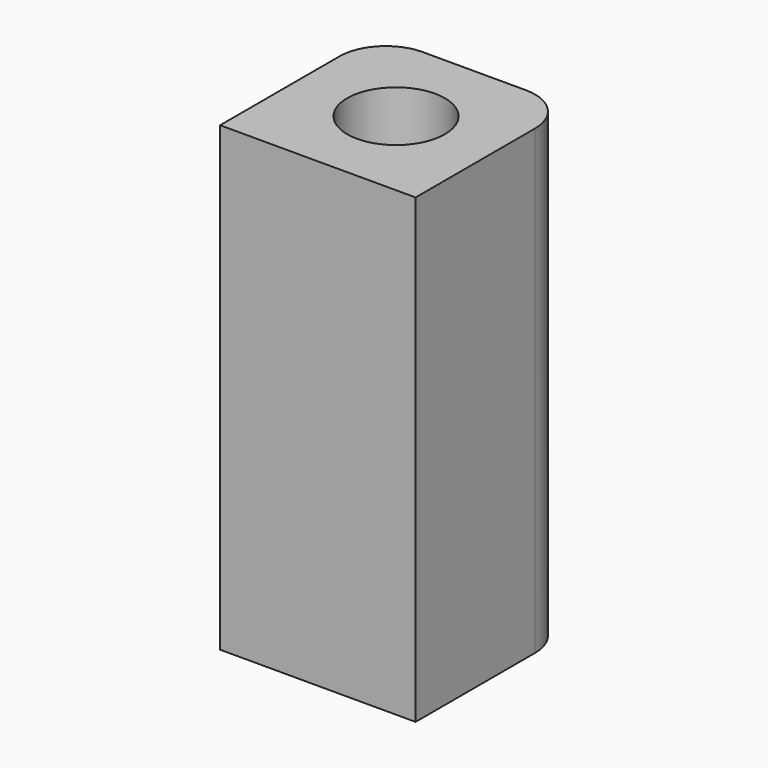
from build123d import *

# Parameters (mm, degrees)
PAD_DEPTH    = 30
SKETCH001_R  = 3.175
POCKET_DEPTH = 25


with BuildPart() as part:
    # Sketch → Pad (new body)
    with BuildSketch(Plane.XY):
        with BuildLine():
            Line((-6.35, 0), (6.35, 0))
            Line((6.35, 0), (6.35, 9.7))
            ThreePointArc((6.35, 9.7), (5.47132, 11.82132), (3.35, 12.7))
            Line((3.35, 12.7), (-3.35, 12.7))
            ThreePointArc((-3.35, 12.7), (-5.47132, 11.82132), (-6.35, 9.7))
            Line((-6.35, 9.7), (-6.35, 0))
        make_face()
    extrude(amount=PAD_DEPTH)

    # Sketch001 (on Face8 of Pad) → Pocket (cut)
    with BuildSketch(Plane.XY.offset(30)):
        with Locations((0, 6.35)):
            Circle(SKETCH001_R)
    extrude(amount=-POCKET_DEPTH, mode=Mode.SUBTRACT)


solid = part.part
